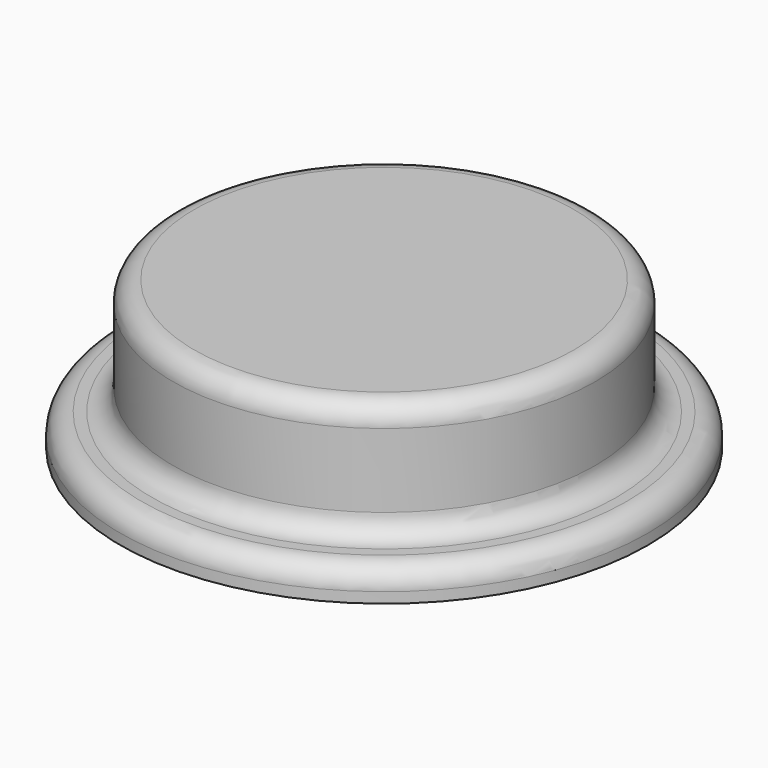
from build123d import *

# Parameters (mm, degrees)
PAD_DEPTH    = 6
PAD001_DEPTH = 5
SKETCH002_R  = 25
PAD002_DEPTH = 3
SKETCH003_R  = 20
PAD003_DEPTH = 12
FILLET_R     = 2


with BuildPart() as part:
    # Sketch → Pad (new body)
    with BuildSketch(Plane.XY):
        with BuildLine():
            Line((-1.45, 1.377498), (-1.45, -1.377498))
            ThreePointArc((-1.45, -1.377498), (0, -1.942662), (1.45, -1.377498))
            Line((1.45, 1.377498), (1.45, -1.377498))
            ThreePointArc((1.45, 1.377498), (0, 1.942662), (-1.45, 1.377498))
        make_face()
    extrude(amount=-PAD_DEPTH)

    # Sketch001 → Pad001 (join)
    with BuildSketch(Plane.XY):
        with BuildLine():
            Line((-8.25, 0), (0, 8.25))
            ThreePointArc((-8.25, 0), (5.833631, -5.833631), (0, 8.25))
        make_face()
    extrude(amount=PAD001_DEPTH)

    # Sketch002 → Pad002 (join)
    with BuildSketch(Plane.XY.offset(5)):
        Circle(SKETCH002_R)
    extrude(amount=PAD002_DEPTH)

    # Sketch003 → Pad003 (join)
    with BuildSketch(Plane.XY.offset(7)):
        Circle(SKETCH003_R)
    extrude(amount=PAD003_DEPTH)

    # Fillet
    fillet_edges = [part.edges().sort_by_distance(p)[0] for p in [
        (-20, 0, 19),
        (-20, 0, 8),
        (-25, 0, 8),
    ]]
    fillet(fillet_edges, radius=FILLET_R)


solid = part.part
